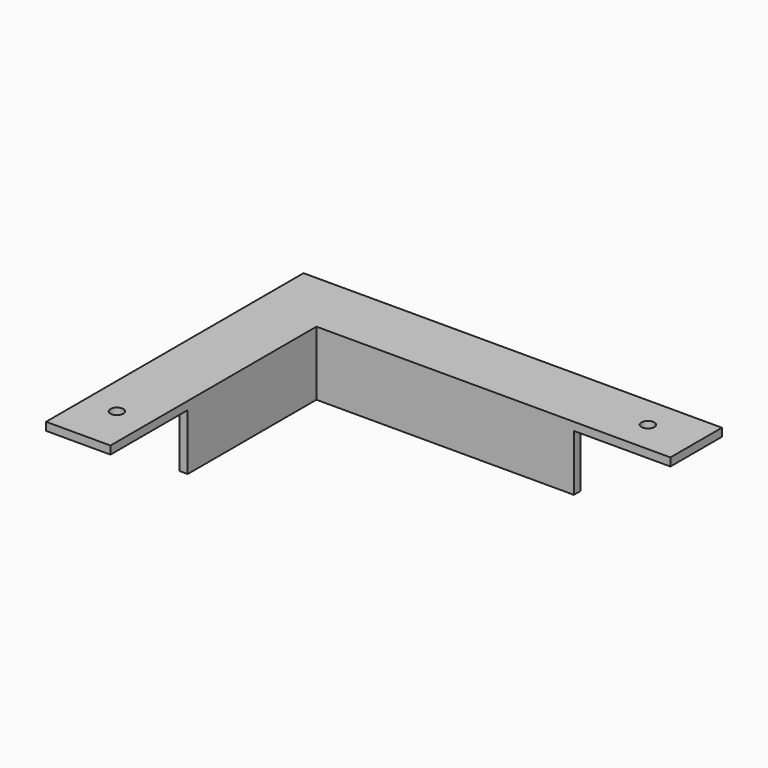
from build123d import *

# Parameters (mm, degrees)
F0_W     = 260
F0_H     = 40
F1_DEPTH = 5
F2_W     = 160
F2_H     = 5
F3_DEPTH = 35
F4_W     = 40
F4_H     = 160
F5_DEPTH = 5
F7_DEPTH = 35
F8_R     = 4
F9_DEPTH = 25


with BuildPart() as f1:
    # F0 (on Top) → F1 (new body)
    with BuildSketch(Plane.XY):
        Rectangle(F0_W, F0_H)
    extrude(amount=F1_DEPTH)

    # F2 (on face) → F3 (join)
    with BuildSketch(Plane(origin=(0, 0, 0), x_dir=(1, 0, 0), z_dir=(0, 0, -1))):
        with Locations((-10, 17.5)):
            Rectangle(F2_W, F2_H)
    extrude(amount=F3_DEPTH)

    # F4 (on face) → F5 (join)
    with BuildSketch(Plane(origin=(0, 0, 0), x_dir=(1, 0, 0), z_dir=(0, 0, -1))):
        with Locations((-110, 100)):
            Rectangle(F4_W, F4_H)
    extrude(amount=-F5_DEPTH)

    # F6 (on face) → F7 (join)
    with BuildSketch(Plane(origin=(0, 0, 0), x_dir=(1, 0, 0), z_dir=(0, 0, -1))):
        Polygon((-95, 15), (-90, 15), (-90, 20), (-90, 120), (-95, 120), align=None)
    extrude(amount=F7_DEPTH)

    # F8 (on face) → F9 (cut)
    with BuildSketch(Plane.XY.offset(5)):
        with Locations((-110, -150)):
            Circle(F8_R)
        with Locations((100, 0)):
            Circle(F8_R)
    extrude(amount=-F9_DEPTH, mode=Mode.SUBTRACT)


solid = f1.part
